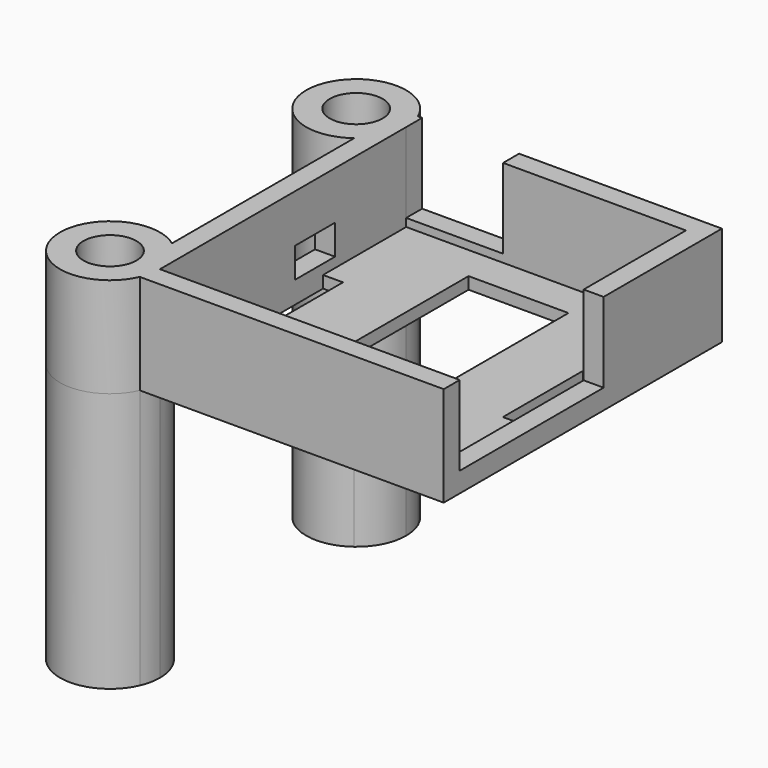
from build123d import *

# Parameters (mm, degrees)
F0_W      = 10
F0_H      = 23.902074
F1_DEPTH  = 1.2
F2_DEPTH  = 10
F0_R      = 2.65
F3_DEPTH  = 10
F4_DEPTH  = 26
F5_W      = 18
F5_H      = 8
F6_DEPTH  = 3
F7_W      = 9.7
F7_H      = 8
F8_DEPTH  = 25
F9_W      = 5
F9_H      = 3
F10_DEPTH = 4


with BuildPart() as f1:
    # F0 (on Top) → F1 (new body)
    with BuildSketch(Plane.XY):
        Polygon((-31.738877, -7.347546), (-31.738877, -17.747546), (-3.738877, -17.747546), (-3.738877, -7.347546), (-5.738877, -7.347546), (-5.738877, 2.652454), (-3.738877, 2.652454), (-3.738877, 13.052454), (-31.738877, 13.052454), (-31.738877, 2.652454), (-29.738877, 2.652454), (-29.738877, -7.347546), align=None)
        with Locations((-17.738877, -2.347546)):
            Rectangle(F0_W, F0_H, mode=Mode.SUBTRACT)
    extrude(amount=F1_DEPTH)

    # F0 (on Top) → F2 (join)
    with BuildSketch(Plane.XY):
        with BuildLine():
            Line((-3.738877, -17.747546), (-31.738877, -17.747546))
            ThreePointArc((-31.738877, -17.747546), (-31.844346, -18.769095), (-32.156302, -19.747546))
            Line((-32.156302, -19.747546), (-1.738877, -19.747546))
            Line((-1.738877, -19.747546), (-1.738877, 15.052454))
            Line((-1.738877, 15.052454), (-32.156302, 15.052454))
            ThreePointArc((-32.156302, 15.052454), (-31.844346, 14.074002), (-31.738877, 13.052454))
            Line((-31.738877, 13.052454), (-3.738877, 13.052454))
            Line((-3.738877, 13.052454), (-3.738877, 2.652454))
            Line((-3.738877, 2.652454), (-3.738877, -7.347546))
            Line((-3.738877, -7.347546), (-3.738877, -17.747546))
        make_face()
        with BuildLine():
            ThreePointArc((-33.738877, -13.747546), (-32.266741, -15.511478), (-31.738877, -17.747546))
            Line((-31.738877, -17.747546), (-31.738877, -7.347546))
            Line((-31.738877, -7.347546), (-31.738877, 2.652454))
            Line((-31.738877, 2.652454), (-31.738877, 13.052454))
            ThreePointArc((-31.738877, 13.052454), (-32.266741, 10.816386), (-33.738877, 9.052454))
            Line((-33.738877, 9.052454), (-33.738877, -13.747546))
        make_face()
        with BuildLine():
            Line((-33.738877, 15.052454), (-33.738877, 9.052454))
            ThreePointArc((-33.738877, 9.052454), (-32.266741, 10.816386), (-31.738877, 13.052454))
            ThreePointArc((-31.738877, 13.052454), (-31.844346, 14.074002), (-32.156302, 15.052454))
            Line((-32.156302, 15.052454), (-33.738877, 15.052454))
        make_face()
        with BuildLine():
            ThreePointArc((-32.156302, -19.747546), (-31.844346, -18.769095), (-31.738877, -17.747546))
            ThreePointArc((-31.738877, -17.747546), (-32.266741, -15.511478), (-33.738877, -13.747546))
            Line((-33.738877, -13.747546), (-33.738877, -19.747546))
            Line((-33.738877, -19.747546), (-32.156302, -19.747546))
        make_face()
    extrude(amount=F2_DEPTH)

    # F0 (on Top) → F3 (join)
    with BuildSketch(Plane.XY):
        with BuildLine():
            ThreePointArc((-32.156302, 15.052454), (-41.57353, 14.327654), (-33.738877, 9.052454))
            Line((-33.738877, 9.052454), (-33.738877, 15.052454))
            Line((-33.738877, 15.052454), (-32.156302, 15.052454))
        make_face()
        with Locations((-36.738877, 13.052454)):
            Circle(F0_R, mode=Mode.SUBTRACT)
        with BuildLine():
            Line((-33.738877, -19.747546), (-33.738877, -13.747546))
            ThreePointArc((-33.738877, -13.747546), (-41.57353, -19.022747), (-32.156302, -19.747546))
            Line((-32.156302, -19.747546), (-33.738877, -19.747546))
        make_face()
        with Locations((-36.738877, -17.747546)):
            Circle(F0_R, mode=Mode.SUBTRACT)
    extrude(amount=F3_DEPTH)

    # F0 (on Top) → F4 (join)
    with BuildSketch(Plane.XY):
        with BuildLine():
            ThreePointArc((-32.156302, 15.052454), (-41.57353, 14.327654), (-33.738877, 9.052454))
            Line((-33.738877, 9.052454), (-33.738877, 15.052454))
            Line((-33.738877, 15.052454), (-32.156302, 15.052454))
        make_face()
        with Locations((-36.738877, 13.052454)):
            Circle(F0_R, mode=Mode.SUBTRACT)
        with BuildLine():
            Line((-33.738877, 15.052454), (-33.738877, 9.052454))
            ThreePointArc((-33.738877, 9.052454), (-32.266741, 10.816386), (-31.738877, 13.052454))
            ThreePointArc((-31.738877, 13.052454), (-31.844346, 14.074002), (-32.156302, 15.052454))
            Line((-32.156302, 15.052454), (-33.738877, 15.052454))
        make_face()
        with BuildLine():
            Line((-33.738877, -19.747546), (-33.738877, -13.747546))
            ThreePointArc((-33.738877, -13.747546), (-41.57353, -19.022747), (-32.156302, -19.747546))
            Line((-32.156302, -19.747546), (-33.738877, -19.747546))
        make_face()
        with Locations((-36.738877, -17.747546)):
            Circle(F0_R, mode=Mode.SUBTRACT)
        with BuildLine():
            ThreePointArc((-32.156302, -19.747546), (-31.844346, -18.769095), (-31.738877, -17.747546))
            ThreePointArc((-31.738877, -17.747546), (-32.266741, -15.511478), (-33.738877, -13.747546))
            Line((-33.738877, -13.747546), (-33.738877, -19.747546))
            Line((-33.738877, -19.747546), (-32.156302, -19.747546))
        make_face()
    extrude(amount=-F4_DEPTH)

    # F5 (on face) → F6 (cut)
    with BuildSketch(Plane.YZ.offset(-1.738877)):
        with Locations((-8.747546, 6)):
            Rectangle(F5_W, F5_H)
    extrude(amount=-F6_DEPTH, mode=Mode.SUBTRACT)

    # F7 (on face) → F8 (cut)
    with BuildSketch(Plane.XZ.offset(-13.052454)):
        with Locations((-26.888877, 6)):
            Rectangle(F7_W, F7_H)
    extrude(amount=-F8_DEPTH, mode=Mode.SUBTRACT)

    # F9 (on face) → F10 (cut)
    with BuildSketch(Plane(origin=(-33.738877, 0, 0), x_dir=(0, -1, 0), z_dir=(-1, 0, 0))):
        with Locations((-1.652454, 3.7)):
            Rectangle(F9_W, F9_H)
    extrude(amount=-F10_DEPTH, mode=Mode.SUBTRACT)


solid = f1.part
